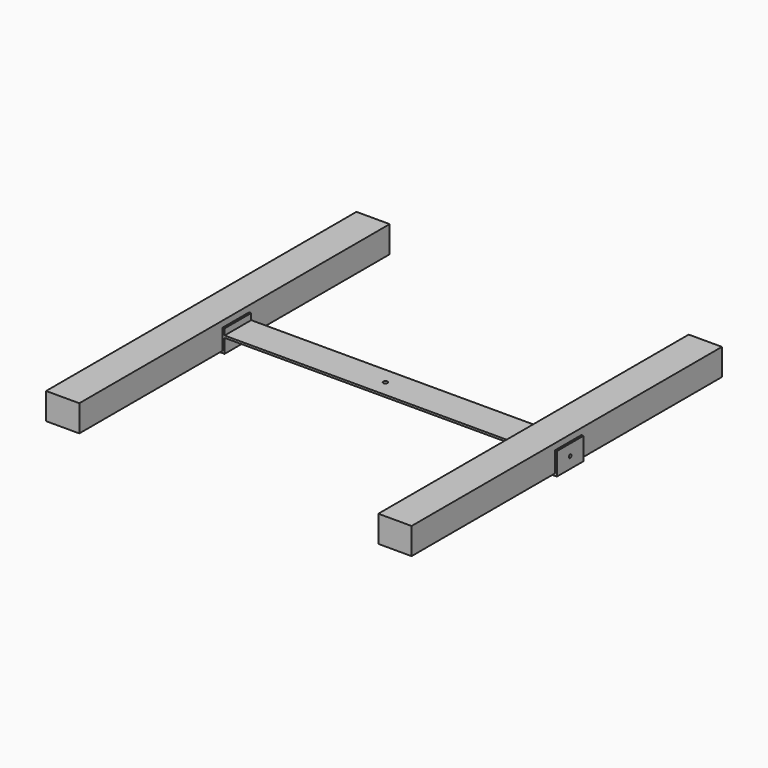
from build123d import *

# Parameters (mm, degrees)
F0_W           = 50.8
F0_H           = 593.1544098956
F1_DEPTH       = 40.64
F2_W           = 450.85
F2_H           = 3.175
F3_DEPTH       = 25.4
F5_D           = 6.5278
F5_DEPTH       = 48.6891948718
F5_TIP         = 1.9611489744
F7_D           = 5.1054
F7_DEPTH       = 48.2684666667
F7_TIP         = 1.5338169022
F9_D           = 5.1054
F9_DEPTH       = 48.26
F9_TIP         = 1.5338169022
F9_ON_F8_D     = 5.1054
F9_ON_F8_DEPTH = 48.26
F9_ON_F8_TIP   = 1.5338169022


with BuildPart() as f1:
    # F0 (on Top) → F1 (new body)
    with BuildSketch(Plane.XY):
        with Locations((-254, -2.5294870138)):
            Rectangle(F0_W, F0_H)
    extrude(amount=F1_DEPTH)


with BuildPart() as f1b:
    # F0 (on Top) → F1, piece 2 (new body)
    with BuildSketch(Plane.XY):
        with Locations((254, -2.5294870138)):
            Rectangle(F0_W, F0_H)
    extrude(amount=F1_DEPTH)


with BuildPart() as f3:
    # F2 (on Front) → F3 (new body, symmetric)
    with BuildSketch(Plane.XZ):
        with Locations((0, 20.0025)):
            Rectangle(F2_W, F2_H)
        Polygon((-228.6, 0), (-279.4, 0), (-279.4, 31.115), (-282.575, 31.115), (-282.575, -3.175), (-225.425, -3.175), (-225.425, 18.415), (-225.425, 21.59), (-225.425, 31.115), (-228.6, 31.115), align=None)
        Polygon((225.425, 31.115), (225.425, 21.59), (225.425, 18.415), (225.425, -3.175), (282.575, -3.175), (282.575, 31.115), (279.4, 31.115), (279.4, 0), (228.6, 0), (228.6, 31.115), align=None)
    extrude(amount=F3_DEPTH, both=True)

    # F5
    with Locations(Plane(origin=(0, 0, 18.415), x_dir=(1, 0, 0), z_dir=(0, 0, -1))):
        with Locations((0, 0)):
            Hole(F5_D / 2, depth=F5_DEPTH)
            with Locations((0, 0, -(F5_DEPTH + F5_TIP / 2))):  # 118° drill point
                Cone(0, F5_D / 2, F5_TIP, mode=Mode.SUBTRACT)

    # F7
    with Locations(Plane(origin=(-282.575, 0, 0), x_dir=(0, -1, 0), z_dir=(-1, 0, 0))):
        with Locations((0, 13.97)):
            Hole(F7_D / 2, depth=F7_DEPTH)
            with Locations((0, 0, -(F7_DEPTH + F7_TIP / 2))):  # 118° drill point
                Cone(0, F7_D / 2, F7_TIP, mode=Mode.SUBTRACT)

    # F9 (one way)
    with BuildSketch(Plane.XZ):
        with Locations((225.425, 13.97)):
            Circle(F9_D / 2)
    extrude(amount=-F9_DEPTH, mode=Mode.SUBTRACT)
    with Locations(Plane.XZ):
        with Locations((225.425, 13.97)):
            with Locations((0, 0, -(F9_DEPTH + F9_TIP / 2))):  # 118° drill point
                Cone(0, F9_D / 2, F9_TIP, mode=Mode.SUBTRACT)

    # F9 on F8
    with Locations(Plane.YZ.offset(282.575)):
        with Locations((0, 13.97)):
            Hole(F9_ON_F8_D / 2, depth=F9_ON_F8_DEPTH)
            with Locations((0, 0, -(F9_ON_F8_DEPTH + F9_ON_F8_TIP / 2))):  # 118° drill point
                Cone(0, F9_ON_F8_D / 2, F9_ON_F8_TIP, mode=Mode.SUBTRACT)


solid = Compound([f1.part, f1b.part, f3.part])
